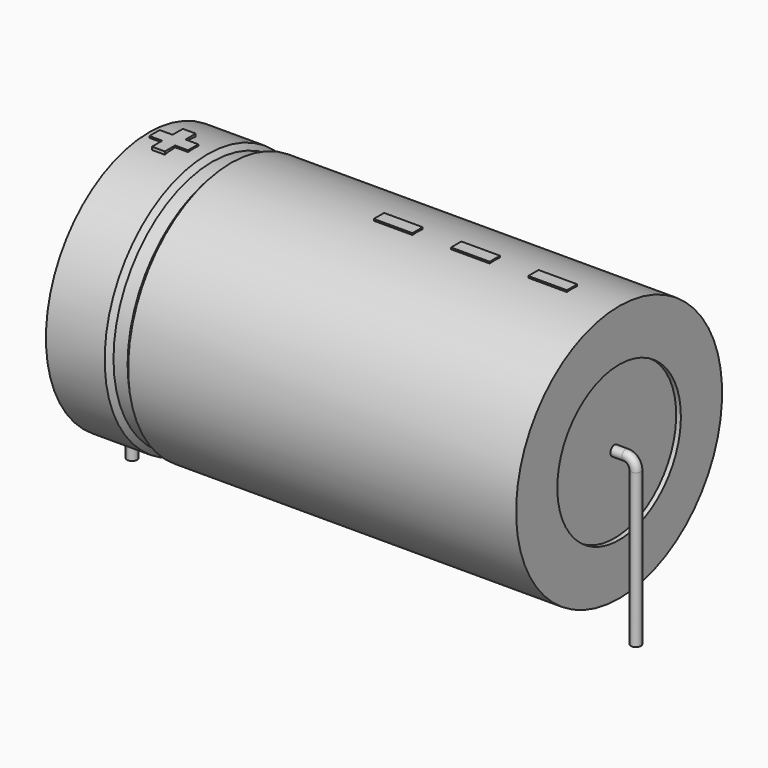
from build123d import *

# Parameters (mm, degrees)
SKETCH_R    = 0.45
SKETCH004_W = 3.45
SKETCH004_H = 1.15
PAD_DEPTH   = 11.615


with BuildPart() as sweep_body:
    # Sweep: sweep along a path in Sketch001
    with BuildLine(Plane.XZ) as sweep_path:
        Line((0, -3), (0, 10.7))
        ThreePointArc((0, 10.7), (0.263607, 11.3364), (0.90001, 11.6))
        Line((0.90001, 11.6), (44.1, 11.6))
        ThreePointArc((44.1, 11.6), (44.736396, 11.336396), (45, 10.7))
        Line((45, 10.7), (45, -3))
    # Sketch → Sweep (sweep)
    with BuildSketch(Plane.XY.offset(-2)):
        Circle(SKETCH_R)
    sweep(path=sweep_path.line)


with BuildPart() as revolution:
    # Sketch002 → Revolution (revolve)
    with BuildSketch(Plane.XZ):
        Polygon((1.5, 23.1), (1.5, 18.5), (43.5, 18.5), (43.5, 23.1), (8.85, 23.1), (8.43, 22.64), (7.17, 22.64), (6.75, 23.1), align=None)
    revolve(axis=Axis((6.97588, 0, 11.6), (1, 0, 0)))


with BuildPart() as revolution001:
    # Sketch003 → Revolution001 (revolve)
    with BuildSketch(Plane.XZ):
        Polygon((1.92, 22.64), (4.02, 22.64), (4.02, 12.75), (40.98, 12.75), (40.98, 22.64), (43.08, 22.64), (43.08, 11.6), (1.92, 11.6), align=None)
    revolve(axis=Axis((6.97588, 0, 11.6), (1, 0, 0)))


with BuildPart() as pad:
    # Sketch004 → Pad (new body)
    with BuildSketch(Plane.XY.offset(11.6)):
        with Locations((37.575, 0)):
            Rectangle(SKETCH004_W, SKETCH004_H)
        with Locations((30.675, 0)):
            Rectangle(SKETCH004_W, SKETCH004_H)
        with Locations((23.775, 0)):
            Rectangle(SKETCH004_W, SKETCH004_H)
        Polygon((3.154, 0.575), (2.004, 0.575), (2.004, -0.575), (3.154, -0.575), (3.154, -1.725), (4.304, -1.725), (4.304, -0.575), (5.454, -0.575), (5.454, 0.575), (4.304, 0.575), (4.304, 1.725), (3.154, 1.725), align=None)
    extrude(amount=PAD_DEPTH)


solid = Compound([sweep_body.part, revolution.part, revolution001.part, pad.part])
